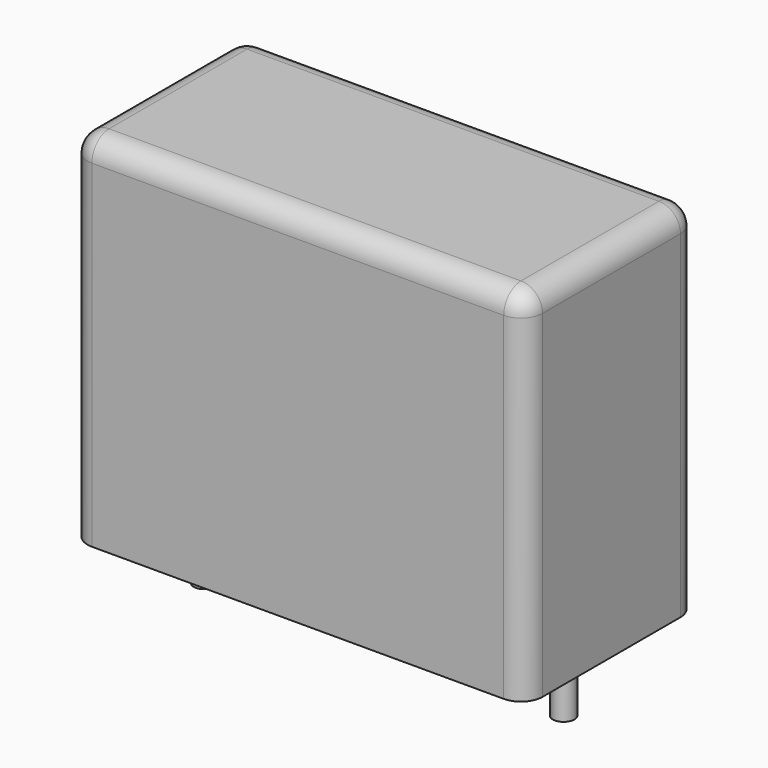
from build123d import *

# Parameters (mm, degrees)
SKETCH_W     = 19
SKETCH_H     = 9
PAD_DEPTH    = 15
FILLET_R     = 0.9
SKETCH001_R  = 0.45
PAD001_DEPTH = 3.2


with BuildPart() as fillet_body:
    # Sketch → Pad (new body)
    with BuildSketch(Plane.XY.offset(0.1)):
        with Locations((7.5, 0)):
            Rectangle(SKETCH_W, SKETCH_H)
    extrude(amount=PAD_DEPTH)

    # Fillet
    fillet_edges = [fillet_body.edges().sort_by_distance(p)[0] for p in [
        (-2, 0, 15.1),
        (-2, -4.5, 7.6),
        (7.5, -4.5, 15.1),
        (17, -4.5, 7.6),
        (17, 0, 15.1),
        (17, 4.5, 7.6),
        (7.5, 4.5, 15.1),
        (-2, 4.5, 7.6),
    ]]
    fillet(fillet_edges, radius=FILLET_R)


with BuildPart() as pad001:
    # Sketch001 → Pad001 (new body)
    with BuildSketch(Plane.XY.offset(0.5)):
        Circle(SKETCH001_R)
        with Locations((15, 0)):
            Circle(SKETCH001_R)
    extrude(amount=-PAD001_DEPTH)


solid = Compound([fillet_body.part, pad001.part])
